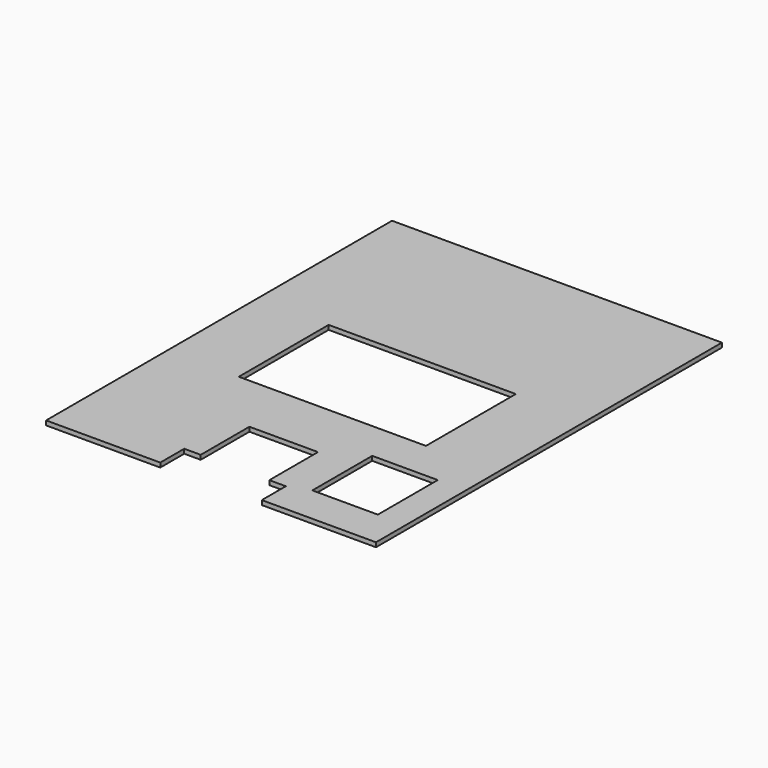
from build123d import *

# Parameters (mm, degrees)
SKETCH_W      = 88.9
SKETCH_H      = 101.6
SKETCH_W_2    = 254
SKETCH_H_2    = 152.4
EXTRUDE_DEPTH = 5.9944


with BuildPart() as part:
    # Sketch → Extrude (new body)
    with BuildSketch(Plane.XY):
        Polygon((0, 0), (447.675, 0), (447.675, -586.7908), (292.735, -586.7908), (292.735, -546.1), (270.383, -546.1), (270.383, -463.55), (177.292, -463.55), (177.292, -546.1), (154.94, -546.1), (154.94, -586.7908), (0, -586.7908), align=None)
        with Locations((365.125, -485.1908)):
            Rectangle(SKETCH_W, SKETCH_H, mode=Mode.SUBTRACT)
        with Locations((223.8502, -304.8)):
            Rectangle(SKETCH_W_2, SKETCH_H_2, mode=Mode.SUBTRACT)
    extrude(amount=EXTRUDE_DEPTH)


solid = part.part
